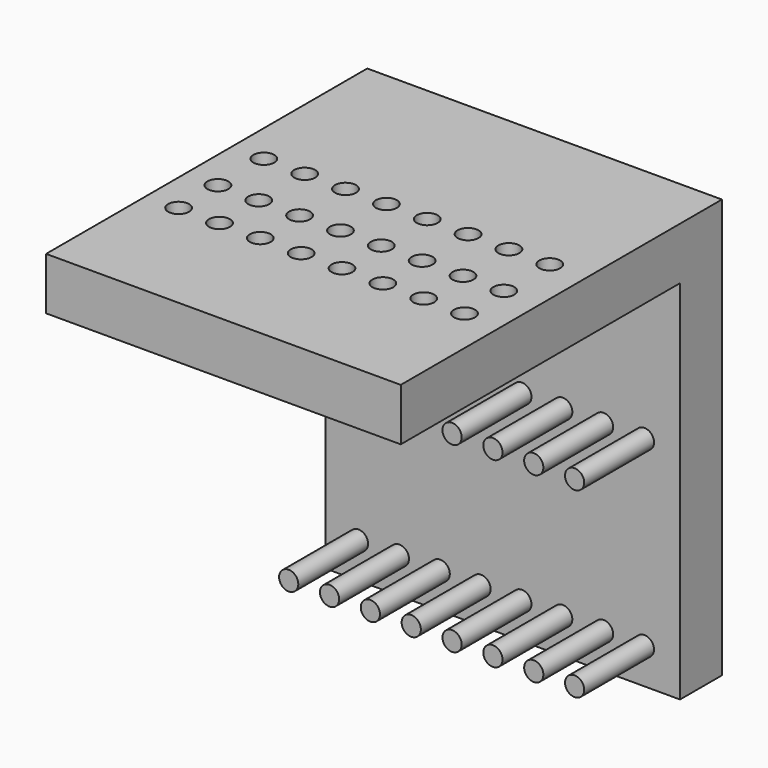
from build123d import *

# Parameters (mm, degrees)
F1_DEPTH = 101.6
F2_R     = 2.75
F3_DEPTH = 25
F4_R     = 3
F5_DEPTH = 30


with BuildPart() as f1:
    # F0 (on Right) → F1 (new body)
    with BuildSketch(Plane.YZ):
        Polygon((-134.565088, 133.698854), (-134.565088, 118.698854), (-34.565088, 118.698854), (-34.565088, 13.698854), (-19.565088, 13.698854), (-19.565088, 133.698854), align=None)
    extrude(amount=F1_DEPTH)

    # F2 (on face) → F3 (join)
    with BuildSketch(Plane.XZ.offset(34.565088)):
        with Locations((9.499623, 23.894975)):
            Circle(F2_R)
        with Locations((21.199623, 23.894975)):
            Circle(F2_R)
        with Locations((32.899623, 23.894975)):
            Circle(F2_R)
        with Locations((44.599623, 23.894975)):
            Circle(F2_R)
        with Locations((56.299623, 23.894975)):
            Circle(F2_R)
        with Locations((67.999623, 23.894975)):
            Circle(F2_R)
        with Locations((79.699623, 23.894975)):
            Circle(F2_R)
        with Locations((91.399623, 23.894975)):
            Circle(F2_R)
        with Locations((9.499623, 76.211095)):
            Circle(F2_R)
        with Locations((21.199617, 76.199905)):
            Circle(F2_R)
        with Locations((32.899612, 76.188715)):
            Circle(F2_R)
        with Locations((44.599606, 76.177524)):
            Circle(F2_R)
        with Locations((56.299601, 76.166334)):
            Circle(F2_R)
        with Locations((67.999596, 76.155144)):
            Circle(F2_R)
        with Locations((79.69959, 76.143954)):
            Circle(F2_R)
        with Locations((91.399585, 76.132764)):
            Circle(F2_R)
    extrude(amount=F3_DEPTH)

    # F4 (on face) → F5 (cut)
    with BuildSketch(Plane(origin=(0, 0, 118.698854), x_dir=(1, 0, 0), z_dir=(0, 0, -1))):
        with Locations((9.251543, 68.155386)):
            Circle(F4_R)
        with Locations((20.951543, 68.155386)):
            Circle(F4_R)
        with Locations((32.651543, 68.155386)):
            Circle(F4_R)
        with Locations((44.351543, 68.155386)):
            Circle(F4_R)
        with Locations((56.051543, 68.155386)):
            Circle(F4_R)
        with Locations((67.751543, 68.155386)):
            Circle(F4_R)
        with Locations((79.451543, 68.155386)):
            Circle(F4_R)
        with Locations((91.151543, 68.155386)):
            Circle(F4_R)
        with Locations((9.251543, 84.600329)):
            Circle(F4_R)
        with Locations((20.951543, 84.600329)):
            Circle(F4_R)
        with Locations((32.651543, 84.600329)):
            Circle(F4_R)
        with Locations((44.351543, 84.600329)):
            Circle(F4_R)
        with Locations((56.051543, 84.600329)):
            Circle(F4_R)
        with Locations((67.751543, 84.600329)):
            Circle(F4_R)
        with Locations((79.451543, 84.600329)):
            Circle(F4_R)
        with Locations((91.151543, 84.600329)):
            Circle(F4_R)
        with Locations((9.251543, 98.667689)):
            Circle(F4_R)
        with Locations((20.951543, 98.667689)):
            Circle(F4_R)
        with Locations((32.651543, 98.667689)):
            Circle(F4_R)
        with Locations((44.351543, 98.667689)):
            Circle(F4_R)
        with Locations((56.051543, 98.667689)):
            Circle(F4_R)
        with Locations((67.751543, 98.667689)):
            Circle(F4_R)
        with Locations((79.451543, 98.667689)):
            Circle(F4_R)
        with Locations((91.151543, 98.667689)):
            Circle(F4_R)
    extrude(amount=-F5_DEPTH, mode=Mode.SUBTRACT)


solid = f1.part
